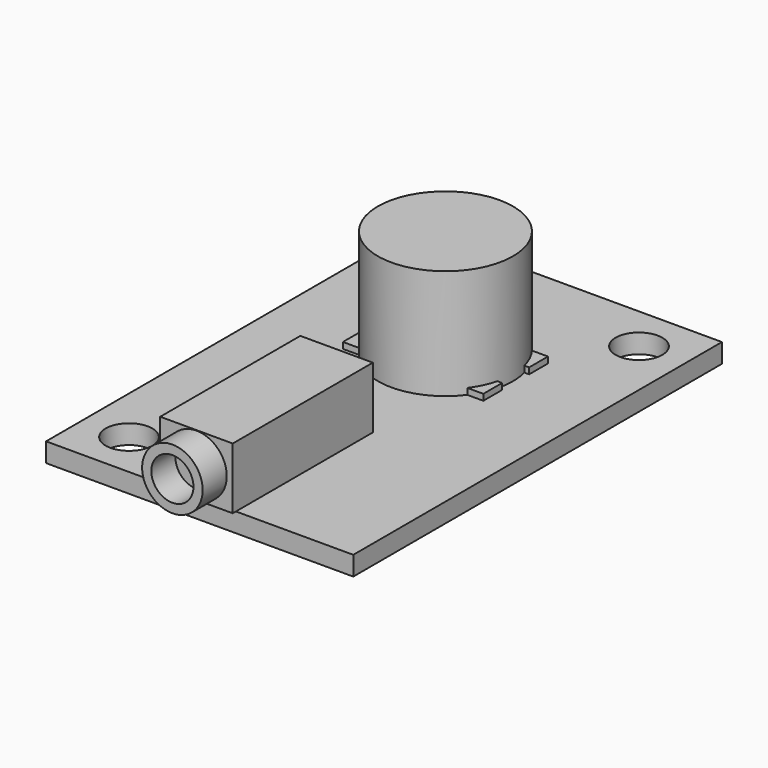
from build123d import *

# Parameters (mm, degrees)
SKETCH003_R             = 5.588
PAD003_DEPTH            = 9.0932
SKETCH004_W             = 1.9431
SKETCH004_H             = 3.2639
PAD004_DEPTH            = 0.508
BODY003_PLACEMENT_ANGLE = 90
SKETCH005_W             = 25.4
SKETCH005_H             = 38.1
SKETCH005_R             = 1.9304
SKETCH005_R_2           = 0.9906
PAD005_DEPTH            = 1.5875
SKETCH_W                = 5.9944
SKETCH_H                = 14.478
PAD_DEPTH               = 5.08
SKETCH001_R             = 2.5019
SKETCH001_R_2           = 1.7399
PAD001_DEPTH            = 2.4892
SKETCH002_R             = 0.7493
PAD002_DEPTH            = 1.016


with BuildPart() as switch_clone:
    # Sketch003 → Pad003 (new body)
    with BuildSketch(Plane.XY):
        Circle(SKETCH003_R)
    extrude(amount=PAD003_DEPTH)

    # Sketch004 (on Face2 of Pad003) → Pad004 (join)
    with BuildSketch(Plane(origin=(0, 0, 0), x_dir=(1, 0, 0), z_dir=(0, 0, -1))):
        with Locations((-2.36855, 4.17195)):
            Rectangle(SKETCH004_W, SKETCH004_H)
        with Locations((2.36855, 4.17195)):
            Rectangle(SKETCH004_W, SKETCH004_H)
        with Locations((2.36855, -4.17195)):
            Rectangle(SKETCH004_W, SKETCH004_H)
        with Locations((-2.36855, -4.17195)):
            Rectangle(SKETCH004_W, SKETCH004_H)
    extrude(amount=-PAD004_DEPTH)


with BuildPart() as switch_clone_1:
    # Body003 placement: moved
    add(switch_clone.part.moved(Location((0, 25.4, 0))).rotate(Axis((0, 25.4, 0), (0, 0, 1)), BODY003_PLACEMENT_ANGLE))


with BuildPart() as bare_pcb_clone:
    # Sketch005 → Pad005 (new body)
    with BuildSketch(Plane.XY):
        with Locations((0, 19.05)):
            Rectangle(SKETCH005_W, SKETCH005_H)
        with Locations((-8.89, 3.81)):
            Circle(SKETCH005_R, mode=Mode.SUBTRACT)
        with Locations((8.89, 34.29)):
            Circle(SKETCH005_R, mode=Mode.SUBTRACT)
        with Locations((0, 3.175)):
            Circle(SKETCH005_R_2, mode=Mode.SUBTRACT)
        with Locations((0, 10.16)):
            Circle(SKETCH005_R_2, mode=Mode.SUBTRACT)
    extrude(amount=-PAD005_DEPTH)


with BuildPart() as populated_pcb_clone:
    # Sketch → Pad (new body)
    with BuildSketch(Plane.XY):
        with Locations((0, 7.239)):
            Rectangle(SKETCH_W, SKETCH_H)
    extrude(amount=PAD_DEPTH)

    # Sketch001 (on Face3 of Pad) → Pad001 (join)
    with BuildSketch(Plane.XZ):
        with Locations((0, 2.54)):
            Circle(SKETCH001_R)
        with Locations((0, 2.54)):
            Circle(SKETCH001_R_2, mode=Mode.SUBTRACT)
    extrude(amount=PAD001_DEPTH)

    # Sketch002 (on Face4 of Pad001) → Pad002 (join)
    with BuildSketch(Plane(origin=(0, 0, 0), x_dir=(1, 0, 0), z_dir=(0, 0, -1))):
        with Locations((0, -3.5052)):
            Circle(SKETCH002_R)
        with Locations((0, -10.5156)):
            Circle(SKETCH002_R)
    extrude(amount=PAD002_DEPTH)


with BuildPart() as populated_pcb_clone_1:
    # Body002 placement: moved
    add(populated_pcb_clone.part.moved(Location((0, -0.3302, 0))))

    # Fusion: union switch clone, bare pcb clone
    add(switch_clone_1.part)
    add(bare_pcb_clone.part)


with BuildPart() as populated_pcb_clone_2:
    # Body006 placement: moved
    add(populated_pcb_clone_1.part.moved(Location((0, 0, -2.54))))


solid = populated_pcb_clone_2.part
